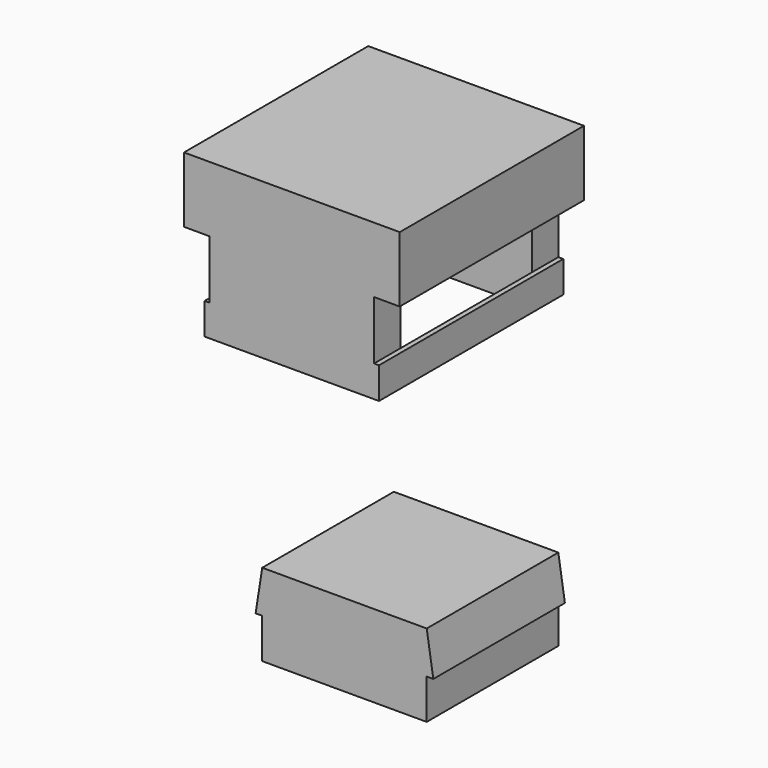
from build123d import *

# Parameters (mm, degrees)
F1_DEPTH = 12.7
F3_DEPTH = 17.78
F4_W     = 12.7
F4_H     = 12.7
F5_DEPTH = 8.89


with BuildPart() as f1:
    # F0 (on Front) → F1 (new body)
    with BuildSketch(Plane.XZ):
        Polygon((-12.7, 0), (0, 0), (0, 3.083747), (0.508, 3.083747), (0, 6.35), (-12.7, 6.35), (-13.208, 3.083747), (-12.7, 3.083747), align=None)
    extrude(amount=F1_DEPTH)


with BuildPart() as f3:
    # F2 (on Front) → F3 (new body)
    with BuildSketch(Plane.XZ):
        Polygon((-12.7, 23.998495), (0, 23.998495), (0.381, 23.998495), (0.381, 26.426982), (0, 26.426982), (0, 30.939251), (1.9812, 30.939251), (1.9812, 35.997743), (-14.674127, 35.997743), (-14.674127, 30.939251), (-12.7, 30.939251), (-12.7, 26.426982), (-13.081, 26.426982), (-13.081, 23.998495), align=None)
    extrude(amount=F3_DEPTH)

    # F4 (on face) → F5 (cut)
    with BuildSketch(Plane(origin=(0, 0, 23.998495), x_dir=(1, 0, 0), z_dir=(0, 0, -1))):
        with Locations((-6.35, 8.89)):
            Rectangle(F4_W, F4_H)
    extrude(amount=-F5_DEPTH, mode=Mode.SUBTRACT)


solid = Compound([f1.part, f3.part])
